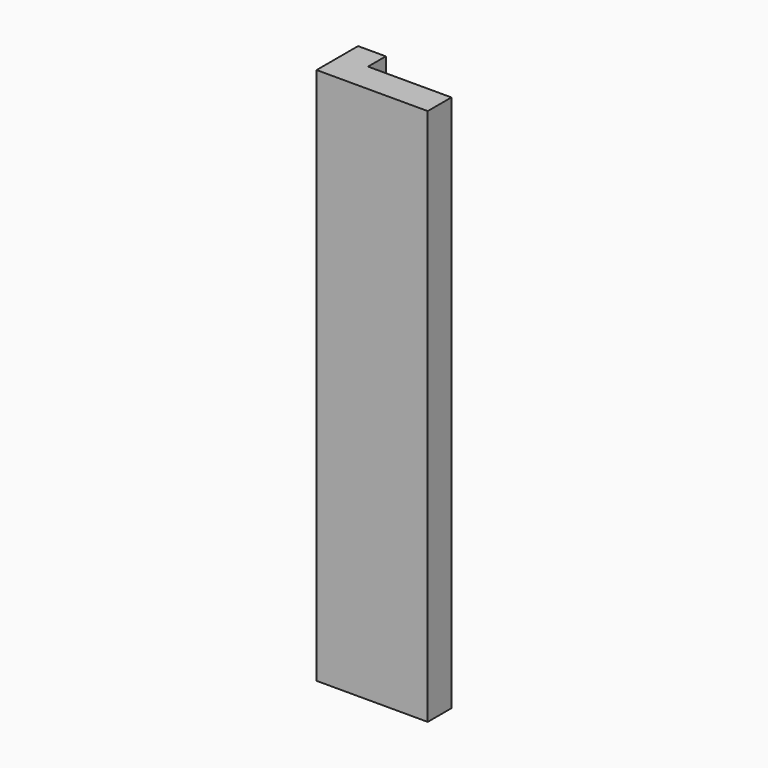
from build123d import *

# Parameters (mm, degrees)
F0_W     = 6.7672654986
F0_H     = 122.8730529547
F1_DEPTH = 25.4
F2_W     = 6.3370051794
F2_H     = 122.8730529547
F3_DEPTH = 5.08


with BuildPart() as f1:
    # F0 (on Right) → F1 (new body)
    with BuildSketch(Plane.YZ):
        with Locations((44.7855144739, 2.6736855507)):
            Rectangle(F0_W, F0_H)
    extrude(amount=F1_DEPTH)

    # F2 (on face) → F3 (join)
    with BuildSketch(Plane(origin=(0, 48.1691472232, 0), x_dir=(-1, 0, 0), z_dir=(0, 1, 0))):
        with Locations((-3.1685025897, 2.6736855507)):
            Rectangle(F2_W, F2_H)
    extrude(amount=F3_DEPTH)


solid = f1.part
